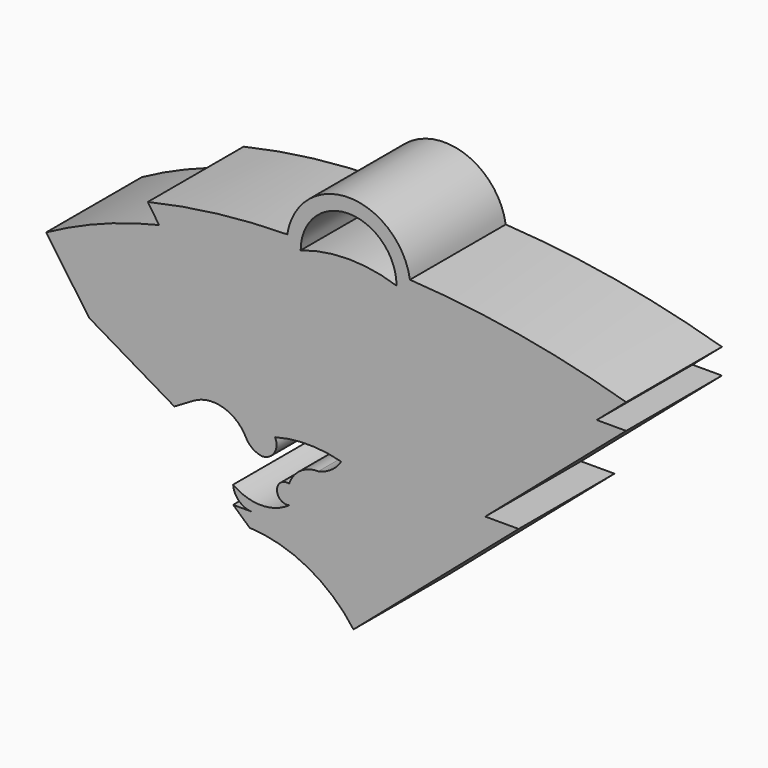
from build123d import *

# Parameters (mm, degrees)
F1_DEPTH = 25.4


with BuildPart() as f1:
    # F0 (on Front) → F1 (new body)
    with BuildSketch(Plane.XZ):
        with BuildLine():
            ThreePointArc((-22.036027, -44.072051), (-9.67173, -47.480311), (0, -55.903476))
            Line((0, -55.903476), (35.050593, -25.733344))
            Line((35.050593, -25.733344), (27.95174, -25.733344))
            Line((27.95174, -25.733344), (57.84783, 0))
            Line((57.84783, 0), (51.614583, 0))
            Line((51.614583, 0), (57.84783, 5.365327))
            ThreePointArc((57.84783, 5.365327), (35.136908, 10.627208), (11.979315, 13.310351))
            ThreePointArc((11.979315, 13.310351), (-1.03525, 24.439791), (-14.049816, 13.310351))
            ThreePointArc((-14.049816, 13.310351), (-28.935956, 12.342824), (-43.628372, 9.760925))
            Line((-43.628372, 9.760925), (-41.26209, 6.211497))
            ThreePointArc((-41.26209, 6.211497), (-53.555536, 2.447613), (-65.220721, -2.957856))
            Line((-65.220721, -2.957856), (-56.05137, -15.972422))
            Line((-56.05137, -15.972422), (-38.008448, -26.620703))
            Line((-38.008448, -26.620703), (-33.895824, -24.204055))
            ThreePointArc((-33.895824, -24.204055), (-27.665097, -23.432097), (-22.833852, -27.441703))
            ThreePointArc((-22.833852, -27.441703), (-21.387026, -29.099123), (-19.326398, -29.869942))
            ThreePointArc((-19.326398, -29.869942), (-16.78065, -28.362967), (-16.628357, -25.408544))
            ThreePointArc((-16.628357, -25.408544), (-9.613447, -24.476899), (-2.598537, -25.408544))
            ThreePointArc((-2.598537, -25.408544), (-4.681451, -27.595484), (-7.455012, -28.790725))
            ThreePointArc((-7.455012, -28.790725), (-11.255149, -29.946665), (-13.66051, -33.107594))
            ThreePointArc((-13.66051, -33.107594), (-16.238261, -35.131125), (-13.66051, -37.154656))
            ThreePointArc((-13.66051, -37.154656), (-19.596203, -39.078416), (-25.531895, -37.154656))
            ThreePointArc((-25.531895, -37.154656), (-24.252791, -39.840887), (-21.484831, -40.931914))
            Line((-21.484831, -40.931914), (-25.531895, -40.931914))
            Line((-25.531895, -40.931914), (-22.036027, -44.072051))
        make_face()
        with BuildLine():
            ThreePointArc((-11.203147, 11.265573), (-1.03525, 21.43347), (9.132647, 11.265573))
            ThreePointArc((9.132647, 11.265573), (-1.03525, 12.94309), (-11.203147, 11.265573))
        make_face(mode=Mode.SUBTRACT)
    extrude(amount=F1_DEPTH)


solid = f1.part
